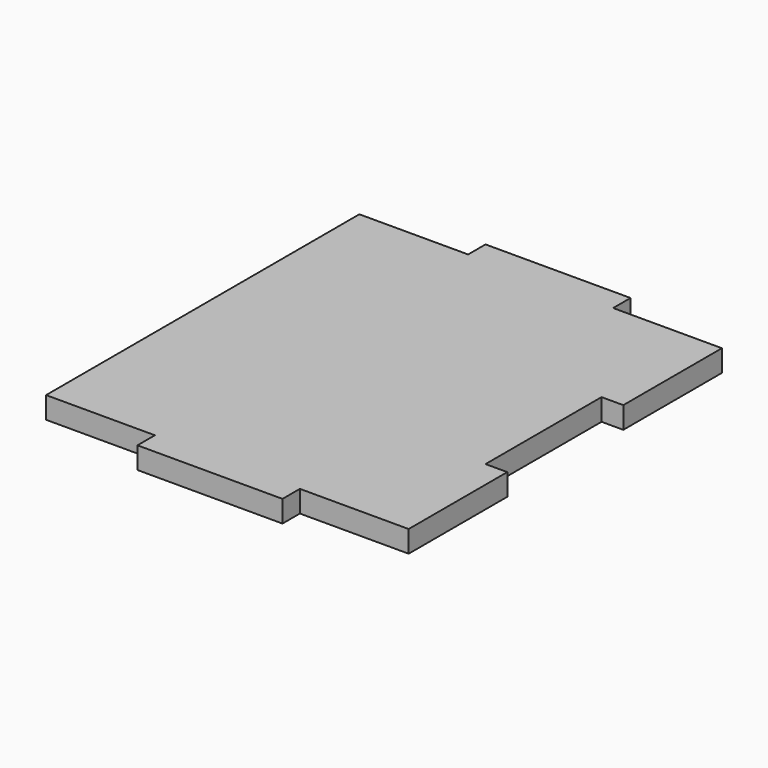
from build123d import *

# Parameters (mm, degrees)
F1_DEPTH = 3


with BuildPart() as f1:
    # F0 (on Top) → F1 (new body)
    with BuildSketch(Plane.XY):
        Polygon((10, 27), (10, 30), (-10, 30), (-10, 27), (-25, 27), (-25, -27), (-10, -27), (-10, -30), (10, -30), (10, -27), (25, -27), (25, -10), (22, -10), (22, 10), (25, 10), (25, 27), align=None)
    extrude(amount=F1_DEPTH)


solid = f1.part
